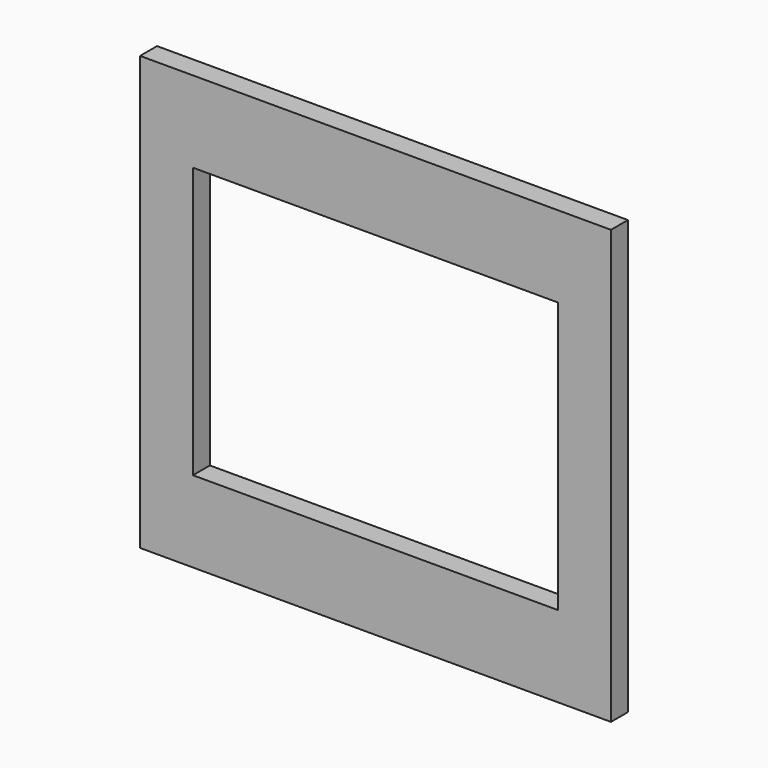
from build123d import *

# Parameters (mm, degrees)
F0_W     = 310.1076054573
F0_H     = 69
F1_DEPTH = 18


with BuildPart() as f1:
    # F0 (on Front) → F1 (new body)
    with BuildSketch(Plane.XZ):
        Polygon((-45, 0), (0, 0), (0, 368), (-45, 368), (-45, 299), (-45, 69), align=None)
        with Locations((-200.0538027287, 34.5)):
            Rectangle(F0_W, F0_H)
        Polygon((-400, 0), (-355.1076054573, 0), (-355.1076054573, 69), (-355.1076054573, 299), (-355.1076054573, 368), (-400, 368), align=None)
        with Locations((-200.0538027287, 333.5)):
            Rectangle(F0_W, F0_H)
    extrude(amount=F1_DEPTH)


solid = f1.part
